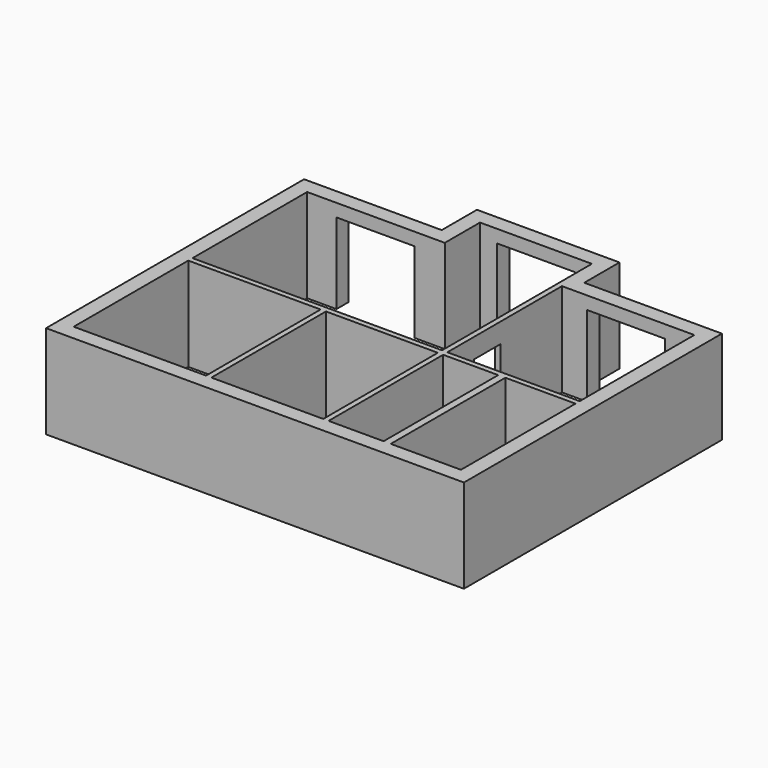
from build123d import *

# Parameters (mm, degrees)
F2_DEPTH  = 2550
F1_W      = 3608
F1_H      = 3905
F3_DEPTH  = 2550
F4_W      = 2120
F4_H      = 2200
F5_DEPTH  = 418
F6_W      = 2120
F6_H      = 2200
F7_DEPTH  = 418
F8_W      = 2120
F8_H      = 2200
F9_DEPTH  = 418
F10_W     = 905
F10_H     = 2010
F11_DEPTH = 144.5
F12_W     = 3608
F12_H     = 3904
F12_W_2   = 3050
F12_W_3   = 1500
F12_W_4   = 1913
F13_DEPTH = 2550.001


with BuildPart() as f2:
    # F0 (on Top) → F2 (new body)
    with BuildSketch(Plane.XY):
        Polygon((0, 8790), (0, 0), (11390, 0), (11390, 8790), (7637.5, 8790), (7637.5, 9990), (3752.5, 9990), (3752.5, 8790), align=None)
    extrude(amount=F2_DEPTH)

    # F1 (on face) → F3 (cut)
    with BuildSketch(Plane.XY):
        Polygon((4170.5, 8372), (418, 8372), (418, 4467), (7219.5, 4467), (7219.5, 9572), (4170.5, 9572), align=None)
        with Locations((9168, 6419.5)):
            Rectangle(F1_W, F1_H)
    extrude(amount=F3_DEPTH, mode=Mode.SUBTRACT)

    # F4 (on face) → F5 (cut)
    with BuildSketch(Plane(origin=(0, 8790, 0), x_dir=(-1, 0, 0), z_dir=(0, 1, 0))):
        with Locations((-9112, 1100)):
            Rectangle(F4_W, F4_H)
    extrude(amount=-F5_DEPTH, mode=Mode.SUBTRACT)

    # F6 (on face) → F7 (cut)
    with BuildSketch(Plane(origin=(0, 9990, 0), x_dir=(-1, 0, 0), z_dir=(0, 1, 0))):
        with Locations((-5695.5, 1100)):
            Rectangle(F6_W, F6_H)
    extrude(amount=-F7_DEPTH, mode=Mode.SUBTRACT)

    # F8 (on face) → F9 (cut)
    with BuildSketch(Plane(origin=(0, 8790, 0), x_dir=(-1, 0, 0), z_dir=(0, 1, 0))):
        with Locations((-2278, 1100)):
            Rectangle(F8_W, F8_H)
    extrude(amount=-F9_DEPTH, mode=Mode.SUBTRACT)

    # F10 (on face) → F11 (cut, through all)
    with BuildSketch(Plane(origin=(7219.5, 0, 0), x_dir=(0, -1, 0), z_dir=(-1, 0, 0))):
        with Locations((-5824.5, 1005)):
            Rectangle(F10_W, F10_H)
    extrude(amount=-F11_DEPTH, mode=Mode.SUBTRACT)

    # F12 (on Top) → F13 (cut, through all)
    with BuildSketch(Plane.XY):
        with Locations((2222, 2370)):
            Rectangle(F12_W, F12_H)
        with Locations((5696, 2370)):
            Rectangle(F12_W_2, F12_H)
        with Locations((8116, 2370)):
            Rectangle(F12_W_3, F12_H)
        with Locations((10017.5, 2370)):
            Rectangle(F12_W_4, F12_H)
    extrude(amount=F13_DEPTH, mode=Mode.SUBTRACT)


solid = f2.part
